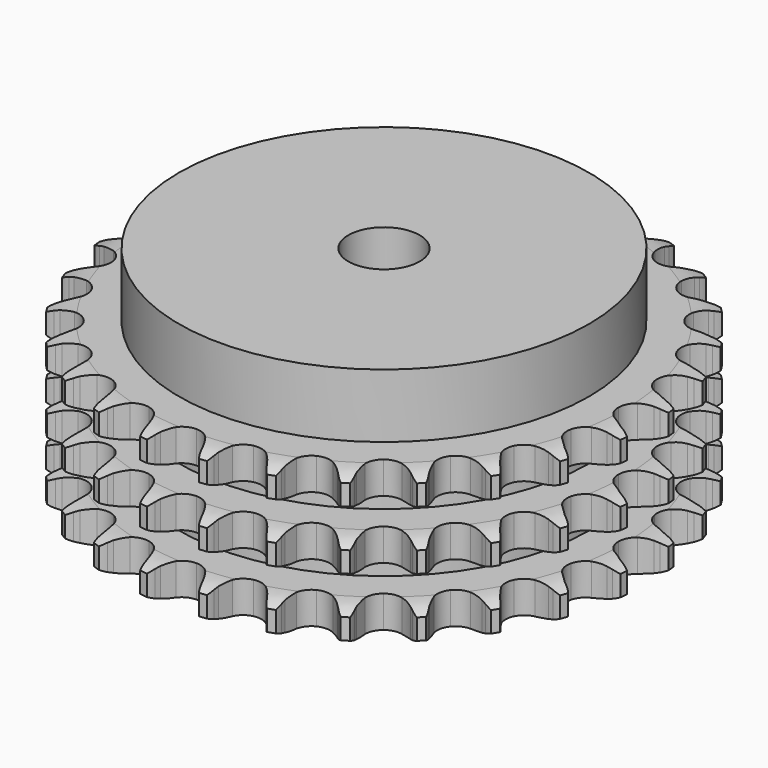
from build123d import *

# Parameters (mm, degrees)
PAD_DEPTH         = 42.1
SKETCH001_R       = 57.5
PAD001_DEPTH      = 60
SKETCH002_R       = 10
POCKET_DEPTH      = 0.001
POCKET_DEPTH_BACK = 60.001


with BuildPart() as part:
    # Sprocket → Pad (new body)
    with BuildSketch(Plane.XY):
        with BuildLine():
            ThreePointArc((-8.494226, 75.388337), (-7.267577, 73.960956), (-6.394077, 72.293897))
            Line((-6.394077, 72.293897), (-5.899023, 71.013786))
            ThreePointArc((-5.899023, 71.013786), (-5.112344, 69.337671), (-4.100051, 67.787353))
            ThreePointArc((-4.100051, 67.787353), (-2.289278, 66.287069), (0, 65.749521))
            ThreePointArc((0, 65.749521), (2.289278, 66.287069), (4.100051, 67.787353))
            ThreePointArc((4.100051, 67.787353), (5.112344, 69.337671), (5.899023, 71.013786))
            Line((5.899023, 71.013786), (6.394077, 72.293897))
            ThreePointArc((6.394077, 72.293897), (7.267577, 73.960956), (8.494226, 75.388337))
            ThreePointArc((8.494226, 75.388337), (9.372497, 73.723788), (9.853141, 71.904154))
            Line((9.853141, 71.904154), (10.050932, 70.545978))
            ThreePointArc((10.050932, 70.545978), (10.444917, 68.736835), (11.086851, 67.00013))
            ThreePointArc((11.086851, 67.00013), (12.518379, 65.134526), (14.630645, 64.101044))
            ThreePointArc((14.630645, 64.101044), (16.982142, 64.115701), (19.081359, 65.175436))
            Line((19.081359, 65.175436), (21.553176, 67.920666))
            ThreePointArc((21.553176, 67.920666), (21.922204, 68.499522), (22.32067, 69.058522))
            ThreePointArc((22.32067, 69.058522), (23.543224, 70.489412), (25.056741, 71.608051))
            ThreePointArc((25.056741, 71.608051), (25.542596, 69.789802), (25.606282, 67.908837))
            Line((25.606282, 67.908837), (25.496891, 66.5407))
            ThreePointArc((25.496891, 66.5407), (25.478425, 64.689246), (25.717812, 62.853241))
            ThreePointArc((25.717812, 62.853241), (26.698313, 60.715866), (28.527648, 59.238272))
            ThreePointArc((28.527648, 59.238272), (30.82345, 58.729305), (33.105849, 59.29535))
            Line((33.105849, 59.29535), (36.126563, 61.42172))
            ThreePointArc((36.126563, 61.42172), (36.615146, 61.903947), (37.128011, 62.360265))
            ThreePointArc((37.128011, 62.360265), (38.638316, 63.483235), (40.362807, 64.237039))
            ThreePointArc((40.362807, 64.237039), (40.431881, 62.356264), (40.075417, 60.508287))
            Line((40.075417, 60.508287), (39.66433, 59.198794))
            ThreePointArc((39.66433, 59.198794), (39.23434, 57.397869), (39.059175, 55.554627))
            ThreePointArc((39.059175, 55.554627), (39.539482, 53.252659), (40.994156, 51.405046))
            ThreePointArc((40.994156, 51.405046), (43.119141, 50.397976), (45.470273, 50.441947))
            Line((45.470273, 50.441947), (48.888413, 51.842833))
            ThreePointArc((48.888413, 51.842833), (49.472052, 52.204249), (50.073598, 52.535003))
            ThreePointArc((50.073598, 52.535003), (51.795922, 53.293744), (53.644913, 53.644913))
            ThreePointArc((53.644913, 53.644913), (53.293744, 51.795922), (52.535003, 50.073598))
            Line((52.535003, 50.073598), (51.842833, 48.888413))
            ThreePointArc((51.842833, 48.888413), (51.02288, 47.228322), (50.441947, 45.470273))
            ThreePointArc((50.441947, 45.470273), (50.397976, 43.119141), (51.405046, 40.994156))
            ThreePointArc((51.405046, 40.994156), (53.252659, 39.539482), (55.554627, 39.059175))
            Line((55.554627, 39.059175), (59.198794, 39.66433))
            ThreePointArc((59.198794, 39.66433), (59.848223, 39.886813), (60.508287, 40.075417))
            ThreePointArc((60.508287, 40.075417), (62.356264, 40.431881), (64.237039, 40.362807))
            ThreePointArc((64.237039, 40.362807), (63.483235, 38.638316), (62.360265, 37.128011))
            Line((62.360265, 37.128011), (61.42172, 36.126563))
            ThreePointArc((61.42172, 36.126563), (60.25292, 34.690551), (59.29535, 33.105849))
            ThreePointArc((59.29535, 33.105849), (58.729305, 30.82345), (59.238272, 28.527648))
            ThreePointArc((59.238272, 28.527648), (60.715866, 26.698313), (62.853241, 25.717812))
            Line((62.853241, 25.717812), (66.5407, 25.496891))
            ThreePointArc((66.5407, 25.496891), (67.223353, 25.569285), (67.908837, 25.606282))
            ThreePointArc((67.908837, 25.606282), (69.789802, 25.542596), (71.608051, 25.056741))
            ThreePointArc((71.608051, 25.056741), (70.489412, 23.543224), (69.058522, 22.32067))
            Line((69.058522, 22.32067), (67.920666, 21.553176))
            ThreePointArc((67.920666, 21.553176), (66.461628, 20.41325), (65.175436, 19.081359))
            ThreePointArc((65.175436, 19.081359), (64.115701, 16.982142), (64.101044, 14.630645))
            ThreePointArc((64.101044, 14.630645), (65.134526, 12.518379), (67.00013, 11.086851))
            Line((67.00013, 11.086851), (70.545978, 10.050932))
            ThreePointArc((70.545978, 10.050932), (71.227625, 9.969606), (71.904154, 9.853141))
            ThreePointArc((71.904154, 9.853141), (73.723788, 9.372497), (75.388337, 8.494226))
            ThreePointArc((75.388337, 8.494226), (73.960956, 7.267577), (72.293897, 6.394077))
            Line((72.293897, 6.394077), (71.013786, 5.899023))
            ThreePointArc((71.013786, 5.899023), (69.337671, 5.112344), (67.787353, 4.100051))
            ThreePointArc((67.787353, 4.100051), (66.287069, 2.289278), (65.749521, 0))
            ThreePointArc((65.749521, 0), (66.287069, -2.289278), (67.787353, -4.100051))
            Line((67.787353, -4.100051), (71.013786, -5.899023))
            ThreePointArc((71.013786, -5.899023), (71.660246, -6.129991), (72.293897, -6.394077))
            ThreePointArc((72.293897, -6.394077), (73.960956, -7.267577), (75.388337, -8.494226))
            ThreePointArc((75.388337, -8.494226), (73.723788, -9.372497), (71.904154, -9.853141))
            Line((71.904154, -9.853141), (70.545978, -10.050932))
            ThreePointArc((70.545978, -10.050932), (68.736835, -10.444917), (67.00013, -11.086851))
            ThreePointArc((67.00013, -11.086851), (65.134526, -12.518379), (64.101044, -14.630645))
            ThreePointArc((64.101044, -14.630645), (64.115701, -16.982142), (65.175436, -19.081359))
            Line((65.175436, -19.081359), (67.920666, -21.553176))
            ThreePointArc((67.920666, -21.553176), (68.499522, -21.922204), (69.058522, -22.32067))
            ThreePointArc((69.058522, -22.32067), (70.489412, -23.543224), (71.608051, -25.056741))
            ThreePointArc((71.608051, -25.056741), (69.789802, -25.542596), (67.908837, -25.606282))
            Line((67.908837, -25.606282), (66.5407, -25.496891))
            ThreePointArc((66.5407, -25.496891), (64.689246, -25.478425), (62.853241, -25.717812))
            ThreePointArc((62.853241, -25.717812), (60.715866, -26.698313), (59.238272, -28.527648))
            ThreePointArc((59.238272, -28.527648), (58.729305, -30.82345), (59.29535, -33.105849))
            Line((59.29535, -33.105849), (61.42172, -36.126563))
            ThreePointArc((61.42172, -36.126563), (61.903947, -36.615146), (62.360265, -37.128011))
            ThreePointArc((62.360265, -37.128011), (63.483235, -38.638316), (64.237039, -40.362807))
            ThreePointArc((64.237039, -40.362807), (62.356264, -40.431881), (60.508287, -40.075417))
            Line((60.508287, -40.075417), (59.198794, -39.66433))
            ThreePointArc((59.198794, -39.66433), (57.397869, -39.23434), (55.554627, -39.059175))
            ThreePointArc((55.554627, -39.059175), (53.252659, -39.539482), (51.405046, -40.994156))
            ThreePointArc((51.405046, -40.994156), (50.397976, -43.119141), (50.441947, -45.470273))
            Line((50.441947, -45.470273), (51.842833, -48.888413))
            ThreePointArc((51.842833, -48.888413), (52.204249, -49.472052), (52.535003, -50.073598))
            ThreePointArc((52.535003, -50.073598), (53.293744, -51.795922), (53.644913, -53.644913))
            ThreePointArc((53.644913, -53.644913), (51.795922, -53.293744), (50.073598, -52.535003))
            Line((50.073598, -52.535003), (48.888413, -51.842833))
            ThreePointArc((48.888413, -51.842833), (47.228322, -51.02288), (45.470273, -50.441947))
            ThreePointArc((45.470273, -50.441947), (43.119141, -50.397976), (40.994156, -51.405046))
            ThreePointArc((40.994156, -51.405046), (39.539482, -53.252659), (39.059175, -55.554627))
            Line((39.059175, -55.554627), (39.66433, -59.198794))
            ThreePointArc((39.66433, -59.198794), (39.886813, -59.848223), (40.075417, -60.508287))
            ThreePointArc((40.075417, -60.508287), (40.431881, -62.356264), (40.362807, -64.237039))
            ThreePointArc((40.362807, -64.237039), (38.638316, -63.483235), (37.128011, -62.360265))
            Line((37.128011, -62.360265), (36.126563, -61.42172))
            ThreePointArc((36.126563, -61.42172), (34.690551, -60.25292), (33.105849, -59.29535))
            ThreePointArc((33.105849, -59.29535), (30.82345, -58.729305), (28.527648, -59.238272))
            ThreePointArc((28.527648, -59.238272), (26.698313, -60.715866), (25.717812, -62.853241))
            Line((25.717812, -62.853241), (25.496891, -66.5407))
            ThreePointArc((25.496891, -66.5407), (25.569285, -67.223353), (25.606282, -67.908837))
            ThreePointArc((25.606282, -67.908837), (25.542596, -69.789802), (25.056741, -71.608051))
            ThreePointArc((25.056741, -71.608051), (23.543224, -70.489412), (22.32067, -69.058522))
            Line((22.32067, -69.058522), (21.553176, -67.920666))
            ThreePointArc((21.553176, -67.920666), (20.41325, -66.461628), (19.081359, -65.175436))
            ThreePointArc((19.081359, -65.175436), (16.982142, -64.115701), (14.630645, -64.101044))
            ThreePointArc((14.630645, -64.101044), (12.518379, -65.134526), (11.086851, -67.00013))
            Line((11.086851, -67.00013), (10.050932, -70.545978))
            ThreePointArc((10.050932, -70.545978), (9.969606, -71.227625), (9.853141, -71.904154))
            ThreePointArc((9.853141, -71.904154), (9.372497, -73.723788), (8.494226, -75.388337))
            ThreePointArc((8.494226, -75.388337), (7.267577, -73.960956), (6.394077, -72.293897))
            Line((6.394077, -72.293897), (5.899023, -71.013786))
            ThreePointArc((5.899023, -71.013786), (5.112344, -69.337671), (4.100051, -67.787353))
            ThreePointArc((4.100051, -67.787353), (2.289278, -66.287069), (0, -65.749521))
            ThreePointArc((0, -65.749521), (-2.289278, -66.287069), (-4.100051, -67.787353))
            Line((-4.100051, -67.787353), (-5.899023, -71.013786))
            ThreePointArc((-5.899023, -71.013786), (-6.129991, -71.660246), (-6.394077, -72.293897))
            ThreePointArc((-6.394077, -72.293897), (-7.267577, -73.960956), (-8.494226, -75.388337))
            ThreePointArc((-8.494226, -75.388337), (-9.372497, -73.723788), (-9.853141, -71.904154))
            Line((-9.853141, -71.904154), (-10.050932, -70.545978))
            ThreePointArc((-10.050932, -70.545978), (-10.444917, -68.736835), (-11.086851, -67.00013))
            ThreePointArc((-11.086851, -67.00013), (-12.518379, -65.134526), (-14.630645, -64.101044))
            ThreePointArc((-14.630645, -64.101044), (-16.982142, -64.115701), (-19.081359, -65.175436))
            Line((-19.081359, -65.175436), (-21.553176, -67.920666))
            ThreePointArc((-21.553176, -67.920666), (-21.922204, -68.499522), (-22.32067, -69.058522))
            ThreePointArc((-22.32067, -69.058522), (-23.543224, -70.489412), (-25.056741, -71.608051))
            ThreePointArc((-25.056741, -71.608051), (-25.542596, -69.789802), (-25.606282, -67.908837))
            Line((-25.606282, -67.908837), (-25.496891, -66.5407))
            ThreePointArc((-25.496891, -66.5407), (-25.478425, -64.689246), (-25.717812, -62.853241))
            ThreePointArc((-25.717812, -62.853241), (-26.698313, -60.715866), (-28.527648, -59.238272))
            ThreePointArc((-28.527648, -59.238272), (-30.82345, -58.729305), (-33.105849, -59.29535))
            Line((-33.105849, -59.29535), (-36.126563, -61.42172))
            ThreePointArc((-36.126563, -61.42172), (-36.615146, -61.903947), (-37.128011, -62.360265))
            ThreePointArc((-37.128011, -62.360265), (-38.638316, -63.483235), (-40.362807, -64.237039))
            ThreePointArc((-40.362807, -64.237039), (-40.431881, -62.356264), (-40.075417, -60.508287))
            Line((-40.075417, -60.508287), (-39.66433, -59.198794))
            ThreePointArc((-39.66433, -59.198794), (-39.23434, -57.397869), (-39.059175, -55.554627))
            ThreePointArc((-39.059175, -55.554627), (-39.539482, -53.252659), (-40.994156, -51.405046))
            ThreePointArc((-40.994156, -51.405046), (-43.119141, -50.397976), (-45.470273, -50.441947))
            Line((-45.470273, -50.441947), (-48.888413, -51.842833))
            ThreePointArc((-48.888413, -51.842833), (-49.472052, -52.204249), (-50.073598, -52.535003))
            ThreePointArc((-50.073598, -52.535003), (-51.795922, -53.293744), (-53.644913, -53.644913))
            ThreePointArc((-53.644913, -53.644913), (-53.293744, -51.795922), (-52.535003, -50.073598))
            Line((-52.535003, -50.073598), (-51.842833, -48.888413))
            ThreePointArc((-51.842833, -48.888413), (-51.02288, -47.228322), (-50.441947, -45.470273))
            ThreePointArc((-50.441947, -45.470273), (-50.397976, -43.119141), (-51.405046, -40.994156))
            ThreePointArc((-51.405046, -40.994156), (-53.252659, -39.539482), (-55.554627, -39.059175))
            Line((-55.554627, -39.059175), (-59.198794, -39.66433))
            ThreePointArc((-59.198794, -39.66433), (-59.848223, -39.886813), (-60.508287, -40.075417))
            ThreePointArc((-60.508287, -40.075417), (-62.356264, -40.431881), (-64.237039, -40.362807))
            ThreePointArc((-64.237039, -40.362807), (-63.483235, -38.638316), (-62.360265, -37.128011))
            Line((-62.360265, -37.128011), (-61.42172, -36.126563))
            ThreePointArc((-61.42172, -36.126563), (-60.25292, -34.690551), (-59.29535, -33.105849))
            ThreePointArc((-59.29535, -33.105849), (-58.729305, -30.82345), (-59.238272, -28.527648))
            ThreePointArc((-59.238272, -28.527648), (-60.715866, -26.698313), (-62.853241, -25.717812))
            Line((-62.853241, -25.717812), (-66.5407, -25.496891))
            ThreePointArc((-66.5407, -25.496891), (-67.223353, -25.569285), (-67.908837, -25.606282))
            ThreePointArc((-67.908837, -25.606282), (-69.789802, -25.542596), (-71.608051, -25.056741))
            ThreePointArc((-71.608051, -25.056741), (-70.489412, -23.543224), (-69.058522, -22.32067))
            Line((-69.058522, -22.32067), (-67.920666, -21.553176))
            ThreePointArc((-67.920666, -21.553176), (-66.461628, -20.41325), (-65.175436, -19.081359))
            ThreePointArc((-65.175436, -19.081359), (-64.115701, -16.982142), (-64.101044, -14.630645))
            ThreePointArc((-64.101044, -14.630645), (-65.134526, -12.518379), (-67.00013, -11.086851))
            Line((-67.00013, -11.086851), (-70.545978, -10.050932))
            ThreePointArc((-70.545978, -10.050932), (-71.227625, -9.969606), (-71.904154, -9.853141))
            ThreePointArc((-71.904154, -9.853141), (-73.723788, -9.372497), (-75.388337, -8.494226))
            ThreePointArc((-75.388337, -8.494226), (-73.960956, -7.267577), (-72.293897, -6.394077))
            Line((-72.293897, -6.394077), (-71.013786, -5.899023))
            ThreePointArc((-71.013786, -5.899023), (-69.337671, -5.112344), (-67.787353, -4.100051))
            ThreePointArc((-67.787353, -4.100051), (-66.287069, -2.289278), (-65.749521, 0))
            ThreePointArc((-65.749521, 0), (-66.287069, 2.289278), (-67.787353, 4.100051))
            Line((-67.787353, 4.100051), (-71.013786, 5.899023))
            ThreePointArc((-71.013786, 5.899023), (-71.660246, 6.129991), (-72.293897, 6.394077))
            ThreePointArc((-72.293897, 6.394077), (-73.960956, 7.267577), (-75.388337, 8.494226))
            ThreePointArc((-75.388337, 8.494226), (-73.723788, 9.372497), (-71.904154, 9.853141))
            Line((-71.904154, 9.853141), (-70.545978, 10.050932))
            ThreePointArc((-70.545978, 10.050932), (-68.736835, 10.444917), (-67.00013, 11.086851))
            ThreePointArc((-67.00013, 11.086851), (-65.134526, 12.518379), (-64.101044, 14.630645))
            ThreePointArc((-64.101044, 14.630645), (-64.115701, 16.982142), (-65.175436, 19.081359))
            Line((-65.175436, 19.081359), (-67.920666, 21.553176))
            ThreePointArc((-67.920666, 21.553176), (-68.499522, 21.922204), (-69.058522, 22.32067))
            ThreePointArc((-69.058522, 22.32067), (-70.489412, 23.543224), (-71.608051, 25.056741))
            ThreePointArc((-71.608051, 25.056741), (-69.789802, 25.542596), (-67.908837, 25.606282))
            Line((-67.908837, 25.606282), (-66.5407, 25.496891))
            ThreePointArc((-66.5407, 25.496891), (-64.689246, 25.478425), (-62.853241, 25.717812))
            ThreePointArc((-62.853241, 25.717812), (-60.715866, 26.698313), (-59.238272, 28.527648))
            ThreePointArc((-59.238272, 28.527648), (-58.729305, 30.82345), (-59.29535, 33.105849))
            Line((-59.29535, 33.105849), (-61.42172, 36.126563))
            ThreePointArc((-61.42172, 36.126563), (-61.903947, 36.615146), (-62.360265, 37.128011))
            ThreePointArc((-62.360265, 37.128011), (-63.483235, 38.638316), (-64.237039, 40.362807))
            ThreePointArc((-64.237039, 40.362807), (-62.356264, 40.431881), (-60.508287, 40.075417))
            Line((-60.508287, 40.075417), (-59.198794, 39.66433))
            ThreePointArc((-59.198794, 39.66433), (-57.397869, 39.23434), (-55.554627, 39.059175))
            ThreePointArc((-55.554627, 39.059175), (-53.252659, 39.539482), (-51.405046, 40.994156))
            ThreePointArc((-51.405046, 40.994156), (-50.397976, 43.119141), (-50.441947, 45.470273))
            Line((-50.441947, 45.470273), (-51.842833, 48.888413))
            ThreePointArc((-51.842833, 48.888413), (-52.204249, 49.472052), (-52.535003, 50.073598))
            ThreePointArc((-52.535003, 50.073598), (-53.293744, 51.795922), (-53.644913, 53.644913))
            ThreePointArc((-53.644913, 53.644913), (-51.795922, 53.293744), (-50.073598, 52.535003))
            Line((-50.073598, 52.535003), (-48.888413, 51.842833))
            ThreePointArc((-48.888413, 51.842833), (-47.228322, 51.02288), (-45.470273, 50.441947))
            ThreePointArc((-45.470273, 50.441947), (-43.119141, 50.397976), (-40.994156, 51.405046))
            ThreePointArc((-40.994156, 51.405046), (-39.539482, 53.252659), (-39.059175, 55.554627))
            Line((-39.059175, 55.554627), (-39.66433, 59.198794))
            ThreePointArc((-39.66433, 59.198794), (-39.886813, 59.848223), (-40.075417, 60.508287))
            ThreePointArc((-40.075417, 60.508287), (-40.431881, 62.356264), (-40.362807, 64.237039))
            ThreePointArc((-40.362807, 64.237039), (-38.638316, 63.483235), (-37.128011, 62.360265))
            Line((-37.128011, 62.360265), (-36.126563, 61.42172))
            ThreePointArc((-36.126563, 61.42172), (-34.690551, 60.25292), (-33.105849, 59.29535))
            ThreePointArc((-33.105849, 59.29535), (-30.82345, 58.729305), (-28.527648, 59.238272))
            ThreePointArc((-28.527648, 59.238272), (-26.698313, 60.715866), (-25.717812, 62.853241))
            Line((-25.717812, 62.853241), (-25.496891, 66.5407))
            ThreePointArc((-25.496891, 66.5407), (-25.569285, 67.223353), (-25.606282, 67.908837))
            ThreePointArc((-25.606282, 67.908837), (-25.542596, 69.789802), (-25.056741, 71.608051))
            ThreePointArc((-25.056741, 71.608051), (-23.543224, 70.489412), (-22.32067, 69.058522))
            Line((-22.32067, 69.058522), (-21.553176, 67.920666))
            ThreePointArc((-21.553176, 67.920666), (-20.41325, 66.461628), (-19.081359, 65.175436))
            ThreePointArc((-19.081359, 65.175436), (-16.982142, 64.115701), (-14.630645, 64.101044))
            ThreePointArc((-14.630645, 64.101044), (-12.518379, 65.134526), (-11.086851, 67.00013))
            Line((-11.086851, 67.00013), (-10.050932, 70.545978))
            ThreePointArc((-10.050932, 70.545978), (-9.969606, 71.227625), (-9.853141, 71.904154))
            ThreePointArc((-9.853141, 71.904154), (-9.372497, 73.723788), (-8.494226, 75.388337))
        make_face()
    extrude(amount=PAD_DEPTH)

    # Sketch → Groove (revolve, cut)
    with BuildSketch(Plane.XZ):
        with BuildLine():
            ThreePointArc((67.375762, 0), (70.95347, 0.405129), (74.35, 1.6))
            Line((74.35, 1.6), (74.35, 7.4))
            ThreePointArc((74.35, 7.4), (70.95347, 8.594871), (67.375762, 9))
            Line((57.5, 9), (67.375762, 9))
            Line((57.5, 9), (57.5, 16.55))
            Line((57.5, 16.55), (67.375762, 16.55))
            ThreePointArc((67.375762, 16.55), (70.95347, 16.955129), (74.35, 18.15))
            Line((74.35, 23.95), (74.35, 18.15))
            ThreePointArc((74.35, 23.95), (70.95347, 25.144871), (67.375762, 25.55))
            Line((57.5, 25.55), (67.375762, 25.55))
            Line((57.5, 33.1), (57.5, 25.55))
            Line((67.375762, 33.1), (57.5, 33.1))
            ThreePointArc((67.375762, 33.1), (70.95347, 33.505129), (74.35, 34.7))
            Line((74.35, 34.7), (74.35, 40.5))
            ThreePointArc((74.35, 40.5), (70.95347, 41.694871), (67.375762, 42.1))
            Line((67.375762, 42.1), (84.35, 42.1))
            Line((84.35, 42.1), (84.35, 0))
            Line((67.375762, 0), (84.35, 0))
        make_face()
    revolve(axis=Axis((0, 0, 0), (0, 0, 1)), mode=Mode.SUBTRACT)

    # Sketch001 → Pad001 (join)
    with BuildSketch(Plane.XY):
        Circle(SKETCH001_R)
    extrude(amount=PAD001_DEPTH)

    # Sketch002 → Pocket (cut, two sides)
    with BuildSketch(Plane.XY) as pocket_sk:
        Circle(SKETCH002_R)
    extrude(amount=-POCKET_DEPTH, mode=Mode.SUBTRACT)
    extrude(pocket_sk.sketch, amount=POCKET_DEPTH_BACK, mode=Mode.SUBTRACT)


solid = part.part
